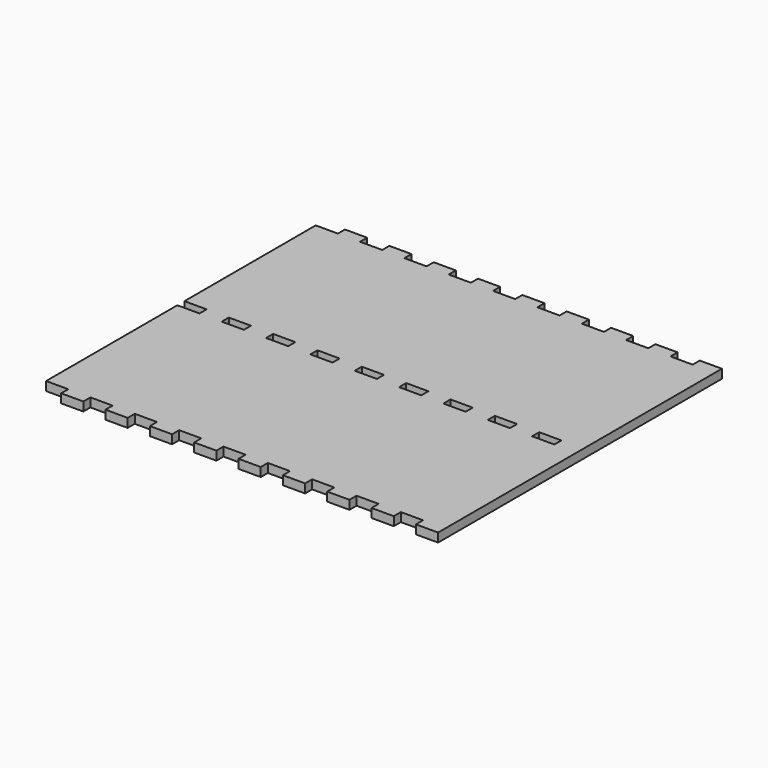
from build123d import *

# Parameters (mm, degrees)
F1_DEPTH = 6
F2_W     = 15
F2_H     = 3
F3_DEPTH = 6.001


with BuildPart() as f1:
    # F0 (on Top) → F1 (new body)
    with BuildSketch(Plane.XY):
        Polygon((15, 6), (15, 0), (30, 0), (30, 6), (45, 6), (45, 0), (60, 0), (60, 6), (75, 6), (75, 0), (90, 0), (90, 6), (105, 6), (105, 0), (120, 0), (120, 6), (135, 6), (135, 0), (150, 0), (150, 6), (165, 6), (165, 0), (180, 0), (180, 6), (195, 6), (195, 0), (210, 0), (210, 6), (225, 6), (225, 0), (240, 0), (240, 6), (255, 6), (255, 0), (270, 0), (270, 240), (255, 240), (255, 234), (240, 234), (240, 240), (225, 240), (225, 234), (210, 234), (210, 240), (195, 240), (195, 234), (180, 234), (180, 240), (165, 240), (165, 234), (150, 234), (150, 240), (135, 240), (135, 234), (120, 234), (120, 240), (105, 240), (105, 234), (90, 234), (90, 240), (75, 240), (75, 234), (60, 234), (60, 240), (45, 240), (45, 234), (30, 234), (30, 240), (15, 240), (15, 234), (0, 234), (0, 6), align=None)
    extrude(amount=F1_DEPTH)

    # F2 (on face) → F3 (cut, through all)
    with BuildSketch(Plane.XY.offset(6)):
        with Locations((7.5, 121.5)):
            Rectangle(F2_W, F2_H)
        with Locations((7.5, 118.5)):
            Rectangle(F2_W, F2_H)
        with Locations((37.5, 121.5)):
            Rectangle(F2_W, F2_H)
        with Locations((37.5, 118.5)):
            Rectangle(F2_W, F2_H)
        with Locations((67.5, 121.5)):
            Rectangle(F2_W, F2_H)
        with Locations((67.5, 118.5)):
            Rectangle(F2_W, F2_H)
        with Locations((97.5, 121.5)):
            Rectangle(F2_W, F2_H)
        with Locations((97.5, 118.5)):
            Rectangle(F2_W, F2_H)
        with Locations((127.5, 121.5)):
            Rectangle(F2_W, F2_H)
        with Locations((127.5, 118.5)):
            Rectangle(F2_W, F2_H)
        with Locations((157.5, 121.5)):
            Rectangle(F2_W, F2_H)
        with Locations((157.5, 118.5)):
            Rectangle(F2_W, F2_H)
        with Locations((187.5, 121.5)):
            Rectangle(F2_W, F2_H)
        with Locations((187.5, 118.5)):
            Rectangle(F2_W, F2_H)
        with Locations((247.5, 121.5)):
            Rectangle(F2_W, F2_H)
        with Locations((247.5, 118.5)):
            Rectangle(F2_W, F2_H)
        with Locations((217.5, 118.5)):
            Rectangle(F2_W, F2_H)
        with Locations((217.5, 121.5)):
            Rectangle(F2_W, F2_H)
    extrude(amount=-F3_DEPTH, mode=Mode.SUBTRACT)


solid = f1.part
